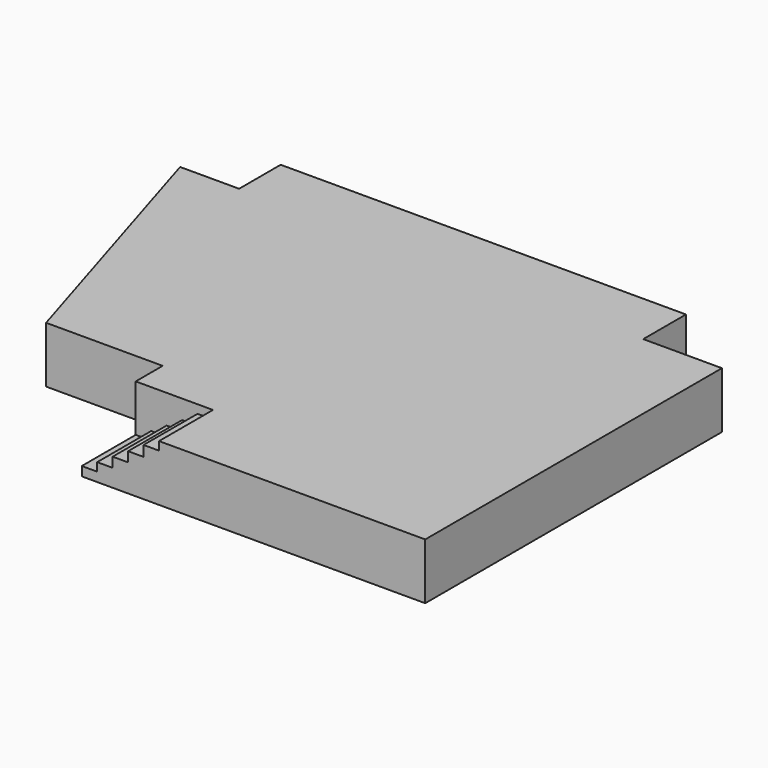
from build123d import *

# Parameters (mm, degrees)
F1_DEPTH = 1016
F2_W     = 279.4
F2_H     = 165.1
F3_DEPTH = 1219.2


with BuildPart() as f1:
    # F0 (on Top) → F1 (new body)
    with BuildSketch(Plane.XY):
        Polygon((6719.881961, -147.716546), (-608.018039, -147.716546), (-608.018039, -1087.516546), (-1674.818039, -1087.516546), (-176.218039, -5989.716546), (1931.981961, -5989.716546), (1931.981961, -6599.316546), (8142.281961, -6599.316546), (8142.281961, -1112.916546), (6719.881961, -1112.916546), align=None)
    extrude(amount=-F1_DEPTH)

    # F2 (on face) → F3 (join)
    with BuildSketch(Plane.XZ.offset(6599.316546)):
        Polygon((8142.281961, -1016), (8142.281961, 0), (3328.981961, 0), (3328.981961, -152.4), (3328.981961, -1016), align=None)
        Polygon((3328.981961, -1016), (3328.981961, -152.4), (3049.581961, -152.4), (3049.581961, -342.9), (3049.581961, -1016), align=None)
        Polygon((2770.181961, -1016), (3049.581961, -1016), (3049.581961, -342.9), (2770.181961, -342.9), (2770.181961, -520.7), align=None)
        Polygon((2490.781961, -1016), (2770.181961, -1016), (2770.181961, -520.7), (2490.781961, -520.7), (2490.781961, -698.5), align=None)
        Polygon((2211.381961, -1016), (2490.781961, -1016), (2490.781961, -698.5), (2211.381961, -698.5), (2211.381961, -850.9), align=None)
        with Locations((2071.681961, -933.45)):
            Rectangle(F2_W, F2_H)
    extrude(amount=F3_DEPTH)


solid = f1.part
